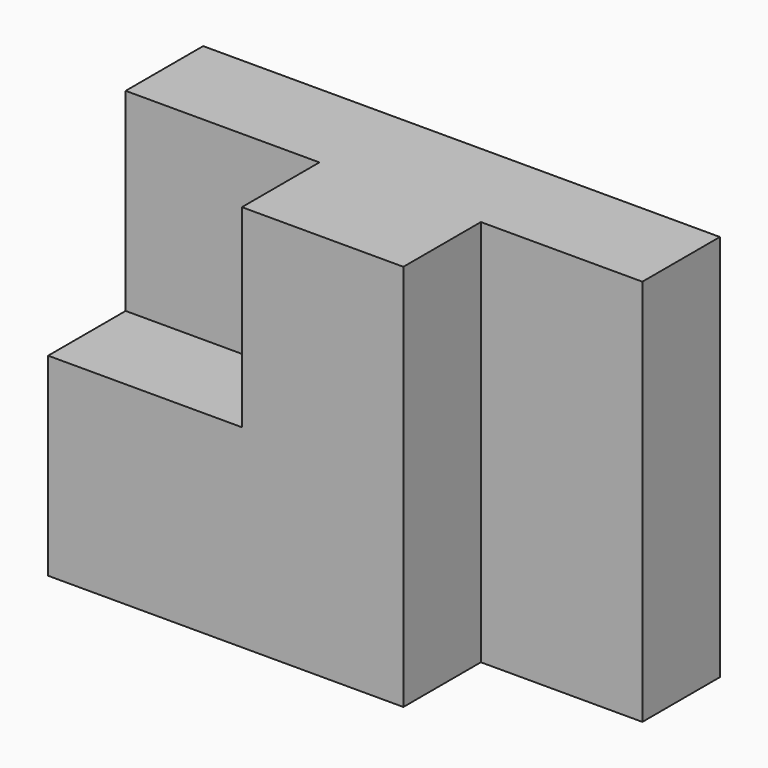
from build123d import *

# Parameters (mm, degrees)
F0_W      = 2032
F0_H      = 1524
F1_DEPTH  = 381
F2_W      = 1397
F2_H      = 1524
F3_DEPTH  = 381
F4_W      = 762
F4_H      = 762
F5_DEPTH  = 127
F5_FACE_W = 762
F5_FACE_H = 762
F6_DEPTH  = 508


with BuildPart() as f1:
    # F0 (on Front) → F1 (new body)
    with BuildSketch(Plane.XZ):
        Rectangle(F0_W, F0_H)
    extrude(amount=F1_DEPTH)

    # F2 (on face) → F3 (join)
    with BuildSketch(Plane.XZ.offset(381)):
        with Locations((-317.5, 0)):
            Rectangle(F2_W, F2_H)
    extrude(amount=F3_DEPTH)

    # F4 (on face) → F5 (join)
    with BuildSketch(Plane.XZ.offset(762)):
        with Locations((-635, 381)):
            Rectangle(F4_W, F4_H)
    extrude(amount=F5_DEPTH)

    # F5_face (on face) → F6 (cut, through all)
    with BuildSketch(Plane(origin=(-635, -889, 381), x_dir=(1, 0, 0), z_dir=(0, -1, 0))):
        Rectangle(F5_FACE_W, F5_FACE_H)
    extrude(amount=-F6_DEPTH, mode=Mode.SUBTRACT)


solid = f1.part
